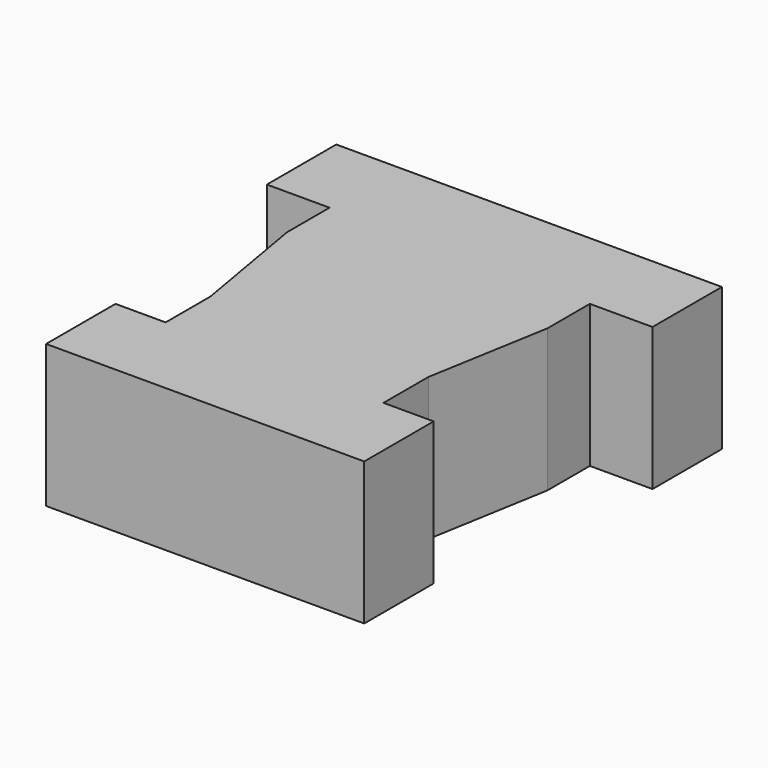
from build123d import *

# Parameters (mm, degrees)
F0_W     = 40
F0_H     = 42
F1_DEPTH = 14.8
F3_DEPTH = 25


with BuildPart() as f1:
    # F0 (on Top) → F1 (new body)
    with BuildSketch(Plane.XY):
        Rectangle(F0_W, F0_H)
    extrude(amount=F1_DEPTH)

    # F2 (on face) → F3 (cut)
    with BuildSketch(Plane.XY.offset(14.8)):
        Polygon((-13.5, 12), (-20, 12), (-20, -21), (-16.5, -21), (-16.5, -12), (-11.3, -12), (-11.3, -6.2), (-13.5, 6.5), align=None)
        Polygon((16.5, -12), (16.5, -21), (20, -21), (20, 12), (13.5, 12), (13.5, 6.5), (11.3, -6.2), (11.3, -12), align=None)
    extrude(amount=-F3_DEPTH, mode=Mode.SUBTRACT)


solid = f1.part
